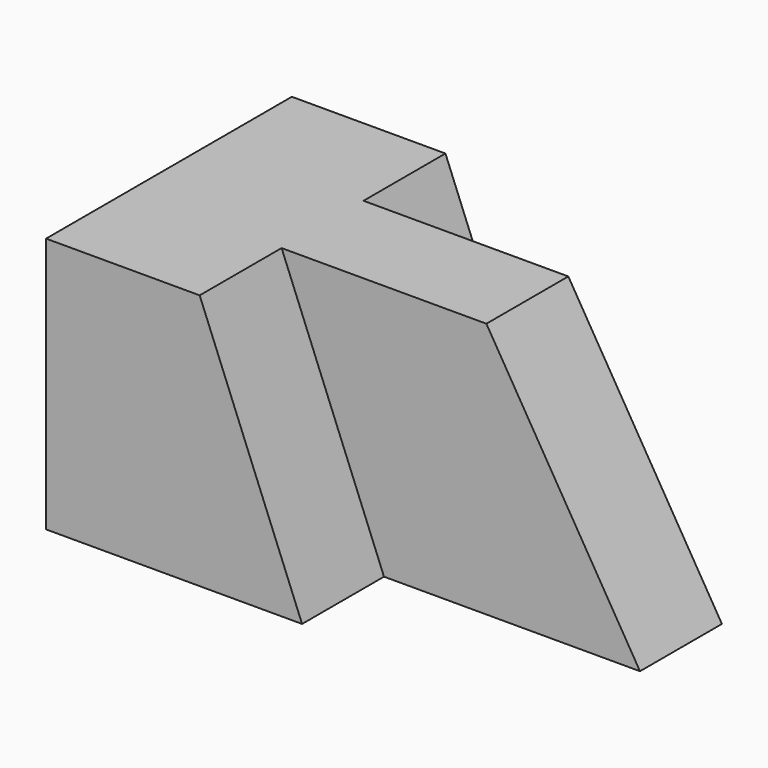
from build123d import *

# Parameters (mm, degrees)
F1_DEPTH = 31.75
F3_DEPTH = 12.7
F5_DEPTH = 25.401
F7_DEPTH = 12.7


with BuildPart() as f1:
    # F0 (on Top) → F1 (new body)
    with BuildSketch(Plane.XY):
        Polygon((0, 38.1), (0, 0), (31.75, 0), (31.75, 12.7), (63.5, 12.7), (63.5, 25.4), (31.75, 25.4), (31.75, 38.1), align=None)
    extrude(amount=F1_DEPTH)

    # F2 (on face) → F3 (cut)
    with BuildSketch(Plane.XZ):
        Polygon((31.75, 31.75), (19.05, 31.75), (31.75, 0), align=None)
    extrude(amount=-F3_DEPTH, mode=Mode.SUBTRACT)

    # F4 (on face) → F5 (cut, through all)
    with BuildSketch(Plane.XZ.offset(-12.7)):
        Polygon((63.5, 31.75), (44.45, 31.75), (63.5, 0), align=None)
    extrude(amount=-F5_DEPTH, mode=Mode.SUBTRACT)

    # F6 (on face) → F7 (cut)
    with BuildSketch(Plane(origin=(0, 38.1, 0), x_dir=(-1, 0, 0), z_dir=(0, 1, 0))):
        Polygon((-31.75, 0), (-19.05, 31.75), (-31.75, 31.75), align=None)
    extrude(amount=-F7_DEPTH, mode=Mode.SUBTRACT)


solid = f1.part
